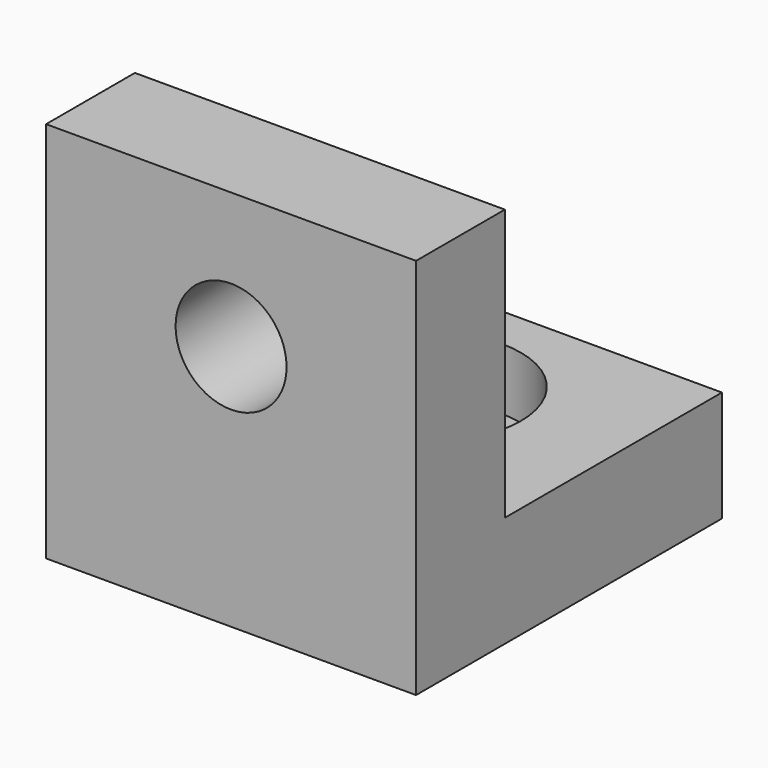
from build123d import *

# Parameters (mm, degrees)
SKETCH_W        = 15
SKETCH_H        = 15.5
SKETCH_R        = 2.25
PAD_DEPTH       = 4.5
SKETCH001_R     = 3.75
POCKET_DEPTH    = 2.5
SKETCH002_W     = 15
SKETCH002_H     = 4.5
PAD001_DEPTH    = 11
SKETCH003_R     = 2.25
POCKET001_DEPTH = 6.5


with BuildPart() as part:
    # Sketch → Pad (new body)
    with BuildSketch(Plane.XY):
        with Locations((7.5, 7.75)):
            Rectangle(SKETCH_W, SKETCH_H)
        with Locations((7.5, 10)):
            Circle(SKETCH_R, mode=Mode.SUBTRACT)
    extrude(amount=PAD_DEPTH)

    # Sketch001 (on Face7 of Pad) → Pocket (cut)
    with BuildSketch(Plane.XY.offset(4.5)):
        with Locations((7.5, 10)):
            Circle(SKETCH001_R)
    extrude(amount=-POCKET_DEPTH, mode=Mode.SUBTRACT)

    # Sketch002 (on Face5 of Pocket) → Pad001 (join)
    with BuildSketch(Plane.XY.offset(4.5)):
        with Locations((7.5, 2.25)):
            Rectangle(SKETCH002_W, SKETCH002_H)
    extrude(amount=PAD001_DEPTH)

    # Sketch003 (on Face5 of Pad001) → Pocket001 (cut)
    with BuildSketch(Plane(origin=(0, 4.5, 0), x_dir=(-1, 0, 0), z_dir=(0, 1, 0))):
        with Locations((-7.5, 10)):
            Circle(SKETCH003_R)
    extrude(amount=-POCKET001_DEPTH, mode=Mode.SUBTRACT)


solid = part.part
